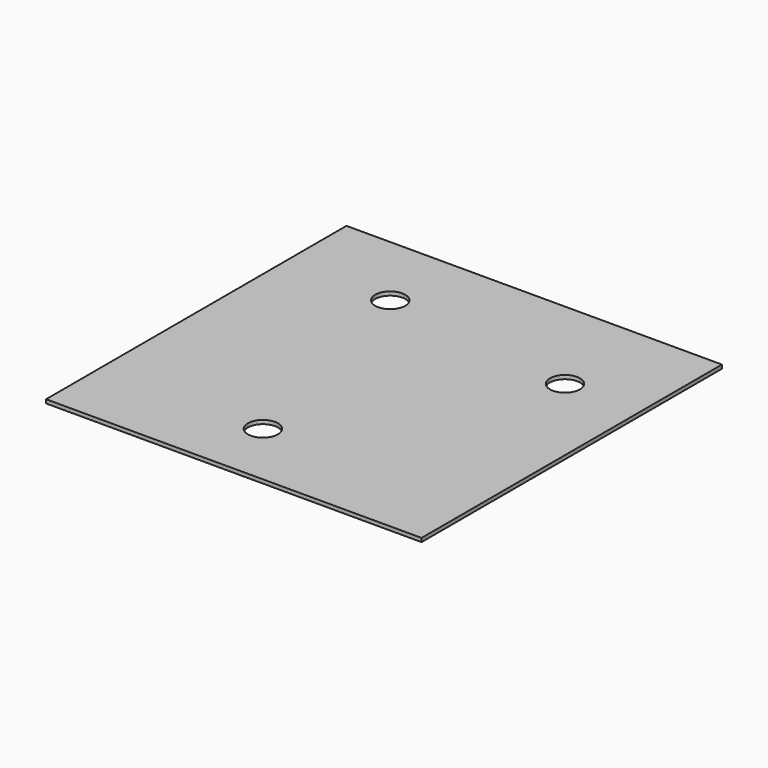
from build123d import *

# Parameters (mm, degrees)
F0_W     = 254
F0_H     = 254
F1_DEPTH = 2.54
F3_D     = 20.32


with BuildPart() as f1:
    # F0 (on Top) → F1 (new body)
    with BuildSketch(Plane.XY):
        Rectangle(F0_W, F0_H)
    extrude(amount=F1_DEPTH)

    # F3 (through all)
    with Locations(Plane.XY.offset(2.54)):
        with Locations((-55.730026, 74.939579), (76.056406, 57.963695), (-16.417462, -81.863947)):
            Hole(F3_D / 2)


solid = f1.part
